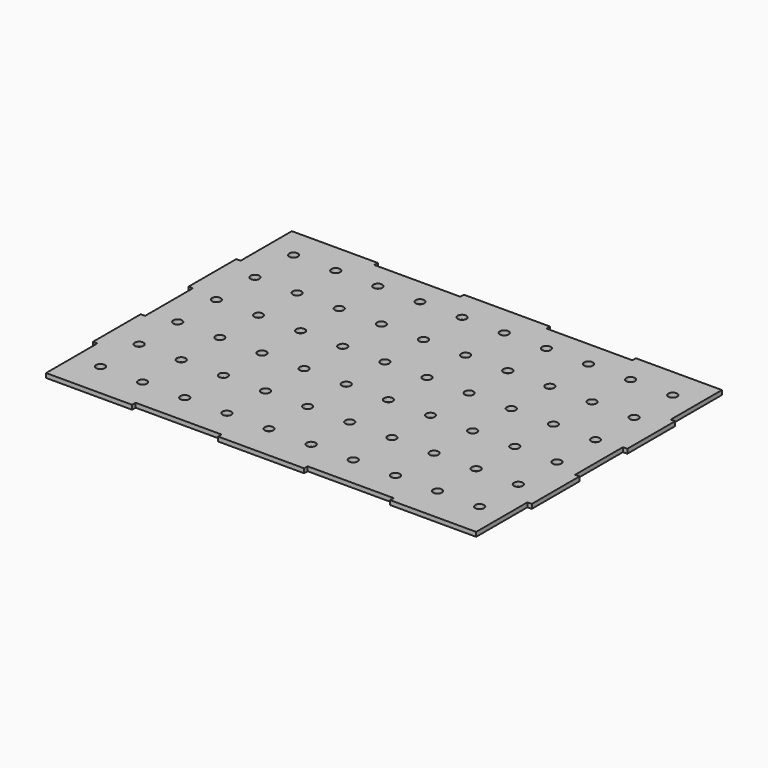
from build123d import *

# Parameters (mm, degrees)
F0_W     = 98
F0_H     = 5
F0_R     = 5
F0_W_2   = 5
F0_H_2   = 68
F0_W_3   = 49
F1_DEPTH = 5


with BuildPart() as f1:
    # F0 (on Top) → F1 (new body)
    with BuildSketch(Plane.XY):
        with Locations((196, -172.5)):
            Rectangle(F0_W, F0_H)
        Polygon((147, -170), (245, -170), (245, -102), (245, -34), (245, 0), (0, 0), (0, -170), (49, -170), align=None)
        with Locations((25, -135)):
            Circle(F0_R, mode=Mode.SUBTRACT)
        with Locations((73, -135)):
            Circle(F0_R, mode=Mode.SUBTRACT)
        with Locations((121, -135)):
            Circle(F0_R, mode=Mode.SUBTRACT)
        with Locations((169, -135)):
            Circle(F0_R, mode=Mode.SUBTRACT)
        with Locations((217, -135)):
            Circle(F0_R, mode=Mode.SUBTRACT)
        with Locations((25, -80)):
            Circle(F0_R, mode=Mode.SUBTRACT)
        with Locations((73, -80)):
            Circle(F0_R, mode=Mode.SUBTRACT)
        with Locations((121, -80)):
            Circle(F0_R, mode=Mode.SUBTRACT)
        with Locations((25, -25)):
            Circle(F0_R, mode=Mode.SUBTRACT)
        with Locations((73, -25)):
            Circle(F0_R, mode=Mode.SUBTRACT)
        with Locations((121, -25)):
            Circle(F0_R, mode=Mode.SUBTRACT)
        with Locations((169, -80)):
            Circle(F0_R, mode=Mode.SUBTRACT)
        with Locations((217, -80)):
            Circle(F0_R, mode=Mode.SUBTRACT)
        with Locations((169, -25)):
            Circle(F0_R, mode=Mode.SUBTRACT)
        with Locations((217, -25)):
            Circle(F0_R, mode=Mode.SUBTRACT)
        with Locations((247.5, -68)):
            Rectangle(F0_W_2, F0_H_2)
        with Locations((24.5, -172.5)):
            Rectangle(F0_W_3, F0_H)
        with Locations((-24.5, -172.5)):
            Rectangle(F0_W_3, F0_H)
        Polygon((-49, -170), (0, -170), (0, 0), (-245, 0), (-245, -34), (-245, -102), (-245, -170), (-147, -170), align=None)
        with Locations((-215, -135)):
            Circle(F0_R, mode=Mode.SUBTRACT)
        with Locations((-167, -135)):
            Circle(F0_R, mode=Mode.SUBTRACT)
        with Locations((-119, -135)):
            Circle(F0_R, mode=Mode.SUBTRACT)
        with Locations((-71, -135)):
            Circle(F0_R, mode=Mode.SUBTRACT)
        with Locations((-23, -135)):
            Circle(F0_R, mode=Mode.SUBTRACT)
        with Locations((-215, -80)):
            Circle(F0_R, mode=Mode.SUBTRACT)
        with Locations((-167, -80)):
            Circle(F0_R, mode=Mode.SUBTRACT)
        with Locations((-215, -25)):
            Circle(F0_R, mode=Mode.SUBTRACT)
        with Locations((-167, -25)):
            Circle(F0_R, mode=Mode.SUBTRACT)
        with Locations((-119, -80)):
            Circle(F0_R, mode=Mode.SUBTRACT)
        with Locations((-71, -80)):
            Circle(F0_R, mode=Mode.SUBTRACT)
        with Locations((-23, -80)):
            Circle(F0_R, mode=Mode.SUBTRACT)
        with Locations((-119, -25)):
            Circle(F0_R, mode=Mode.SUBTRACT)
        with Locations((-71, -25)):
            Circle(F0_R, mode=Mode.SUBTRACT)
        with Locations((-23, -25)):
            Circle(F0_R, mode=Mode.SUBTRACT)
        Polygon((0, 0), (245, 0), (245, 34), (245, 102), (245, 170), (147, 170), (49, 170), (0, 170), align=None)
        with Locations((25, 30)):
            Circle(F0_R, mode=Mode.SUBTRACT)
        with Locations((73, 30)):
            Circle(F0_R, mode=Mode.SUBTRACT)
        with Locations((121, 30)):
            Circle(F0_R, mode=Mode.SUBTRACT)
        with Locations((25, 85)):
            Circle(F0_R, mode=Mode.SUBTRACT)
        with Locations((73, 85)):
            Circle(F0_R, mode=Mode.SUBTRACT)
        with Locations((121, 85)):
            Circle(F0_R, mode=Mode.SUBTRACT)
        with Locations((169, 30)):
            Circle(F0_R, mode=Mode.SUBTRACT)
        with Locations((217, 30)):
            Circle(F0_R, mode=Mode.SUBTRACT)
        with Locations((169, 85)):
            Circle(F0_R, mode=Mode.SUBTRACT)
        with Locations((217, 85)):
            Circle(F0_R, mode=Mode.SUBTRACT)
        with Locations((25, 140)):
            Circle(F0_R, mode=Mode.SUBTRACT)
        with Locations((73, 140)):
            Circle(F0_R, mode=Mode.SUBTRACT)
        with Locations((121, 140)):
            Circle(F0_R, mode=Mode.SUBTRACT)
        with Locations((169, 140)):
            Circle(F0_R, mode=Mode.SUBTRACT)
        with Locations((217, 140)):
            Circle(F0_R, mode=Mode.SUBTRACT)
        Polygon((-245, 0), (0, 0), (0, 170), (-49, 170), (-147, 170), (-245, 170), (-245, 102), (-245, 34), align=None)
        with Locations((-215, 30)):
            Circle(F0_R, mode=Mode.SUBTRACT)
        with Locations((-167, 30)):
            Circle(F0_R, mode=Mode.SUBTRACT)
        with Locations((-215, 85)):
            Circle(F0_R, mode=Mode.SUBTRACT)
        with Locations((-167, 85)):
            Circle(F0_R, mode=Mode.SUBTRACT)
        with Locations((-119, 30)):
            Circle(F0_R, mode=Mode.SUBTRACT)
        with Locations((-71, 30)):
            Circle(F0_R, mode=Mode.SUBTRACT)
        with Locations((-23, 30)):
            Circle(F0_R, mode=Mode.SUBTRACT)
        with Locations((-119, 85)):
            Circle(F0_R, mode=Mode.SUBTRACT)
        with Locations((-71, 85)):
            Circle(F0_R, mode=Mode.SUBTRACT)
        with Locations((-23, 85)):
            Circle(F0_R, mode=Mode.SUBTRACT)
        with Locations((-215, 140)):
            Circle(F0_R, mode=Mode.SUBTRACT)
        with Locations((-167, 140)):
            Circle(F0_R, mode=Mode.SUBTRACT)
        with Locations((-119, 140)):
            Circle(F0_R, mode=Mode.SUBTRACT)
        with Locations((-71, 140)):
            Circle(F0_R, mode=Mode.SUBTRACT)
        with Locations((-23, 140)):
            Circle(F0_R, mode=Mode.SUBTRACT)
        with Locations((247.5, 68)):
            Rectangle(F0_W_2, F0_H_2)
        with Locations((-196, -172.5)):
            Rectangle(F0_W, F0_H)
        with Locations((24.5, 172.5)):
            Rectangle(F0_W_3, F0_H)
        with Locations((-24.5, 172.5)):
            Rectangle(F0_W_3, F0_H)
        with Locations((-247.5, -68)):
            Rectangle(F0_W_2, F0_H_2)
        with Locations((-247.5, 68)):
            Rectangle(F0_W_2, F0_H_2)
        with Locations((196, 172.5)):
            Rectangle(F0_W, F0_H)
        with Locations((-196, 172.5)):
            Rectangle(F0_W, F0_H)
    extrude(amount=F1_DEPTH)


solid = f1.part
